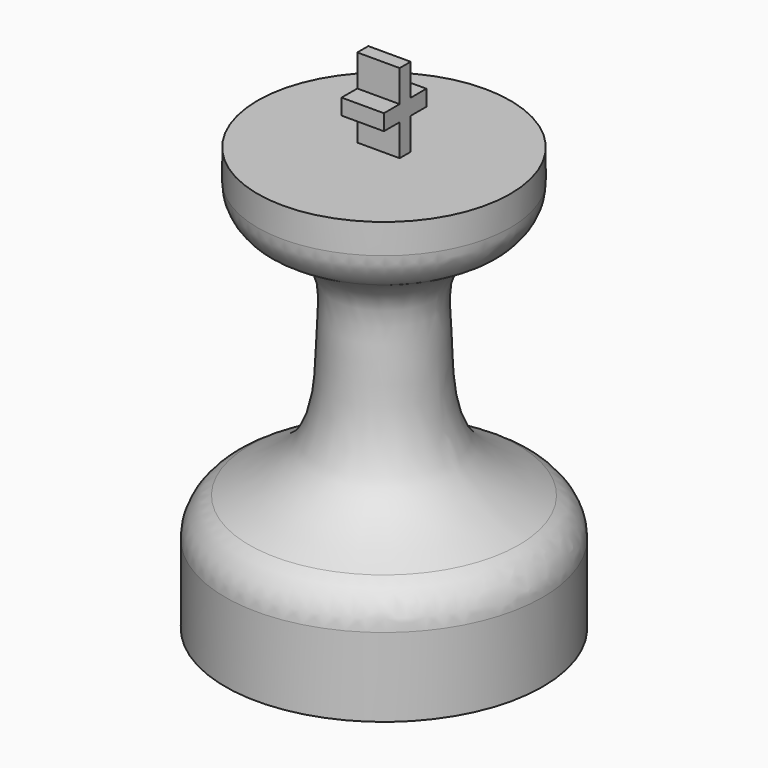
from build123d import *

# Parameters (mm, degrees)
F2_R          = 5.08
F3_W          = 2.3605417221
F3_H          = 1.905
F3_W_2        = 1.651
F3_H_2        = 3.81
F4_DEPTH      = 2.54
F4_DEPTH_BACK = 2.54


with BuildPart() as f1:
    # F0 (on Front) → F1 (revolve)
    with BuildSketch(Plane.XZ):
        with BuildLine():
            Line((0, 50.8), (0, 0))
            Line((0, 0), (19.05, 0))
            Line((19.05, 0), (19.05, 12.7))
            add(Edge.make_bspline(
                [(19.05, 12.7), (14.6501975513, 14.6853360604), (6.1281189575, 18.5307791547), (6.6413755909, 31.399715349), (5.422508764, 39.255582621), (11.7317588055, 42.4059519263), (15.1685345918, 44.1220216453)],
                knots=[0, 0, 0, 0, 0.2826478816, 0.547467185, 0.7534962459, 1, 1, 1, 1], degree=3))
            Line((15.1685345918, 44.1220216453), (15.1685345918, 50.8))
            Line((15.1685345918, 50.8), (0, 50.8))
        make_face()
    revolve(axis=Axis((0, 0, 25.4), (0, 0, -1)))

    # F2
    f2_edges = [f1.edges().sort_by_distance(p)[0] for p in [
        (-19.05, 0, 12.7),
        (-15.168535, 0, 44.122022),
    ]]
    fillet(f2_edges, radius=F2_R)

    # F3 (on Right) → F4 (join, two sides)
    with BuildSketch(Plane.YZ) as f4_sk:
        with Locations((2.005770861, 55.5625)):
            Rectangle(F3_W, F3_H)
        with Locations((0, 55.5625)):
            Rectangle(F3_W_2, F3_H)
        with Locations((-2.005770861, 55.5625)):
            Rectangle(F3_W, F3_H)
        with Locations((0, 58.42)):
            Rectangle(F3_W_2, F3_H_2)
        with Locations((0, 52.705)):
            Rectangle(F3_W_2, F3_H_2)
    extrude(amount=F4_DEPTH)
    extrude(f4_sk.sketch, amount=-F4_DEPTH_BACK)


solid = f1.part
